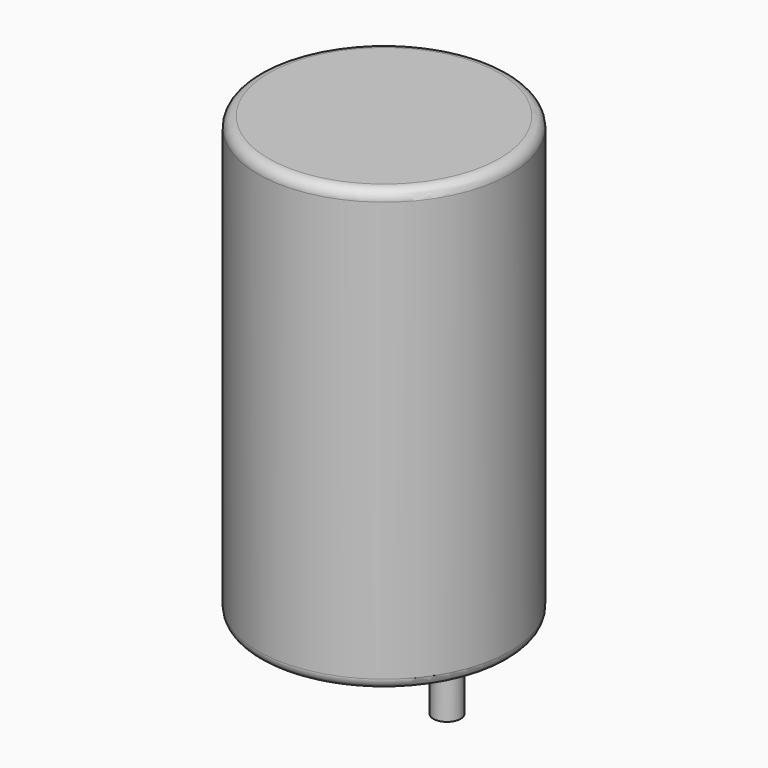
from build123d import *

# Parameters (mm, degrees)
SKETCH001_R       = 0.65
PAD001_DEPTH      = 10.5
PAD001_DEPTH_BACK = 3.5
SKETCH_R          = 6
PAD_DEPTH         = 21
FILLET_R          = 0.5


with BuildPart() as pad001:
    # Sketch001 → Pad001 (new body, two sides)
    with BuildSketch(Plane.XY.offset(0.5)) as pad001_sk:
        Circle(SKETCH001_R)
        with Locations((6, 0)):
            Circle(SKETCH001_R)
    extrude(amount=PAD001_DEPTH)
    extrude(pad001_sk.sketch, amount=-PAD001_DEPTH_BACK)


with BuildPart() as obj1:
    # Sketch → Pad (new body)
    with BuildSketch(Plane.XY.offset(0.1)):
        with Locations((3, 0)):
            Circle(SKETCH_R)
    extrude(amount=PAD_DEPTH)

    # Fillet
    fillet_edges = [obj1.edges().sort_by_distance(p)[0] for p in [
        (-3, 0, 0.1),
        (-3, 0, 21.1),
    ]]
    fillet(fillet_edges, radius=FILLET_R)

    add(pad001.part)


solid = obj1.part
